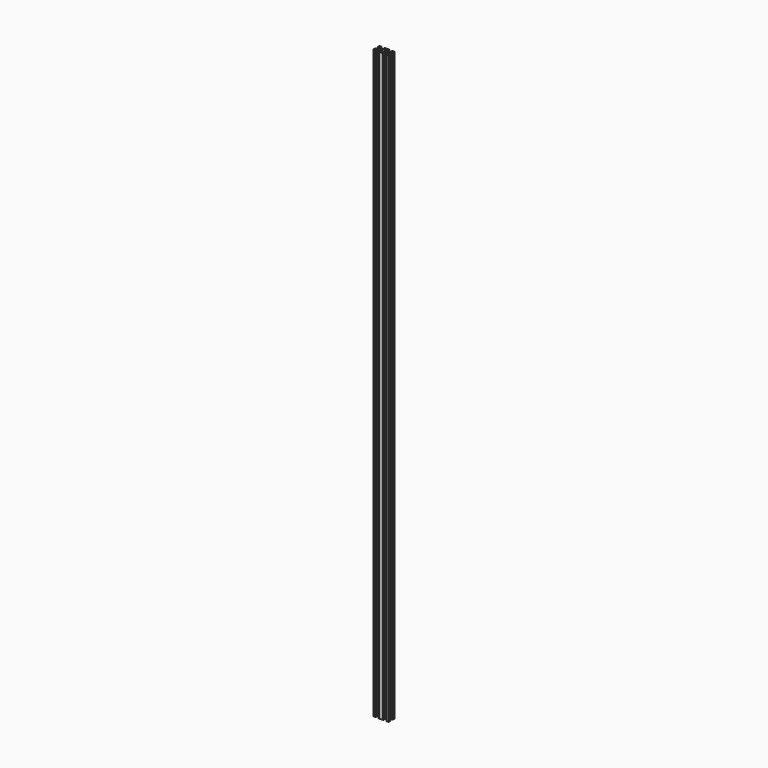
from build123d import *

# Parameters (mm, degrees)
F0_R     = 2.1
F1_DEPTH = 1500


with BuildPart() as f1:
    # F0 (on Top) → F1 (new body)
    with BuildSketch(Plane.XY):
        with BuildLine():
            Line((-3.4, 0), (-3.5, -0.1))
            Line((-3.5, -0.1), (-3.5, -2.43934))
            Line((-3.5, -2.43934), (-6.56066, -5.5))
            Line((-6.56066, -5.5), (-8.2, -5.5))
            Line((-8.2, -5.5), (-8.2, -2.89))
            Line((-8.2, -2.89), (-8.31, -2.89))
            Line((-8.31, -2.89), (-9.768614, -4.348614))
            ThreePointArc((-9.768614, -4.348614), (-9.939865, -4.604909), (-10, -4.907229))
            Line((-10, -4.907229), (-10, -8.5))
            ThreePointArc((-10, -8.5), (-9.56066, -9.56066), (-8.5, -10))
            Line((-8.5, -10), (-4.907229, -10))
            ThreePointArc((-4.907229, -10), (-4.604909, -9.939865), (-4.348614, -9.768614))
            Line((-4.348614, -9.768614), (-2.89, -8.31))
            Line((-2.89, -8.31), (-2.89, -8.2))
            Line((-2.89, -8.2), (-5.5, -8.2))
            Line((-5.5, -8.2), (-5.5, -6.56066))
            Line((-5.5, -6.56066), (-2.43934, -3.5))
            Line((-2.43934, -3.5), (-0.1, -3.5))
            Line((-0.1, -3.5), (0, -3.4))
            Line((0, -3.4), (0.1, -3.5))
            Line((0.1, -3.5), (2.43934, -3.5))
            Line((2.43934, -3.5), (5.5, -6.56066))
            Line((5.5, -6.56066), (5.5, -8.2))
            Line((5.5, -8.2), (2.89, -8.2))
            Line((2.89, -8.2), (2.89, -8.31))
            Line((2.89, -8.31), (4.348614, -9.768614))
            ThreePointArc((4.348614, -9.768614), (4.604909, -9.939865), (4.907229, -10))
            Line((4.907229, -10), (10, -10))
            Line((10, -10), (15.092771, -10))
            ThreePointArc((15.092771, -10), (15.395091, -9.939865), (15.651386, -9.768614))
            Line((15.651386, -9.768614), (17.11, -8.31))
            Line((17.11, -8.31), (17.11, -8.2))
            Line((17.11, -8.2), (14.5, -8.2))
            Line((14.5, -8.2), (14.5, -6.56066))
            Line((14.5, -6.56066), (17.56066, -3.5))
            Line((17.56066, -3.5), (19.9, -3.5))
            Line((19.9, -3.5), (20, -3.4))
            Line((20, -3.4), (20.1, -3.5))
            Line((20.1, -3.5), (22.43934, -3.5))
            Line((22.43934, -3.5), (25.5, -6.56066))
            Line((25.5, -6.56066), (25.5, -8.2))
            Line((25.5, -8.2), (22.89, -8.2))
            Line((22.89, -8.2), (22.89, -8.31))
            Line((22.89, -8.31), (24.348614, -9.768614))
            ThreePointArc((24.348614, -9.768614), (24.604909, -9.939865), (24.907229, -10))
            Line((24.907229, -10), (28.5, -10))
            ThreePointArc((28.5, -10), (29.56066, -9.56066), (30, -8.5))
            Line((30, -8.5), (30, -4.907229))
            ThreePointArc((30, -4.907229), (29.939865, -4.604909), (29.768614, -4.348614))
            Line((29.768614, -4.348614), (28.31, -2.89))
            Line((28.31, -2.89), (28.2, -2.89))
            Line((28.2, -2.89), (28.2, -5.5))
            Line((28.2, -5.5), (26.56066, -5.5))
            Line((26.56066, -5.5), (23.5, -2.43934))
            Line((23.5, -2.43934), (23.5, -0.1))
            Line((23.5, -0.1), (23.4, 0))
            Line((23.4, 0), (23.5, 0.1))
            Line((23.5, 0.1), (23.5, 2.43934))
            Line((23.5, 2.43934), (26.56066, 5.5))
            Line((26.56066, 5.5), (28.2, 5.5))
            Line((28.2, 5.5), (28.2, 2.89))
            Line((28.2, 2.89), (28.31, 2.89))
            Line((28.31, 2.89), (29.768614, 4.348614))
            ThreePointArc((29.768614, 4.348614), (29.939865, 4.604909), (30, 4.907229))
            Line((30, 4.907229), (30, 8.5))
            ThreePointArc((30, 8.5), (29.56066, 9.56066), (28.5, 10))
            Line((28.5, 10), (24.907229, 10))
            ThreePointArc((24.907229, 10), (24.604909, 9.939865), (24.348614, 9.768614))
            Line((24.348614, 9.768614), (22.89, 8.31))
            Line((22.89, 8.31), (22.89, 8.2))
            Line((22.89, 8.2), (25.5, 8.2))
            Line((25.5, 8.2), (25.5, 6.56066))
            Line((25.5, 6.56066), (22.43934, 3.5))
            Line((22.43934, 3.5), (20.1, 3.5))
            Line((20.1, 3.5), (20, 3.4))
            Line((20, 3.4), (19.9, 3.5))
            Line((19.9, 3.5), (17.56066, 3.5))
            Line((17.56066, 3.5), (14.5, 6.56066))
            Line((14.5, 6.56066), (14.5, 8.2))
            Line((14.5, 8.2), (17.11, 8.2))
            Line((17.11, 8.2), (17.11, 8.31))
            Line((17.11, 8.31), (15.651386, 9.768614))
            ThreePointArc((15.651386, 9.768614), (15.395091, 9.939865), (15.092771, 10))
            Line((15.092771, 10), (10, 10))
            Line((10, 10), (4.907229, 10))
            ThreePointArc((4.907229, 10), (4.604909, 9.939865), (4.348614, 9.768614))
            Line((4.348614, 9.768614), (2.89, 8.31))
            Line((2.89, 8.31), (2.89, 8.2))
            Line((2.89, 8.2), (5.5, 8.2))
            Line((5.5, 8.2), (5.5, 6.56066))
            Line((5.5, 6.56066), (2.43934, 3.5))
            Line((2.43934, 3.5), (0.1, 3.5))
            Line((0.1, 3.5), (0, 3.4))
            Line((0, 3.4), (-0.1, 3.5))
            Line((-0.1, 3.5), (-2.43934, 3.5))
            Line((-2.43934, 3.5), (-5.5, 6.56066))
            Line((-5.5, 6.56066), (-5.5, 8.2))
            Line((-5.5, 8.2), (-2.89, 8.2))
            Line((-2.89, 8.2), (-2.89, 8.31))
            Line((-2.89, 8.31), (-4.348614, 9.768614))
            ThreePointArc((-4.348614, 9.768614), (-4.604909, 9.939865), (-4.907229, 10))
            Line((-4.907229, 10), (-8.5, 10))
            ThreePointArc((-8.5, 10), (-9.56066, 9.56066), (-10, 8.5))
            Line((-10, 8.5), (-10, 4.907229))
            ThreePointArc((-10, 4.907229), (-9.939865, 4.604909), (-9.768614, 4.348614))
            Line((-9.768614, 4.348614), (-8.31, 2.89))
            Line((-8.31, 2.89), (-8.2, 2.89))
            Line((-8.2, 2.89), (-8.2, 5.5))
            Line((-8.2, 5.5), (-6.56066, 5.5))
            Line((-6.56066, 5.5), (-3.5, 2.43934))
            Line((-3.5, 2.43934), (-3.5, 0.1))
            Line((-3.5, 0.1), (-3.4, 0))
        make_face()
        Polygon((-7.66, -6.57), (-7.115, -7.115), (-6.57, -7.66), (-6.57, -8.2), (-8.2, -8.2), (-8.2, -6.57), align=None, mode=Mode.SUBTRACT)
        Polygon((27.115, -7.115), (27.66, -6.57), (28.2, -6.57), (28.2, -8.2), (26.57, -8.2), (26.57, -7.66), align=None, mode=Mode.SUBTRACT)
        Circle(F0_R, mode=Mode.SUBTRACT)
        Polygon((-6.57, 8.2), (-6.57, 7.66), (-7.115, 7.115), (-7.66, 6.57), (-8.2, 6.57), (-8.2, 8.2), align=None, mode=Mode.SUBTRACT)
        Polygon((3.5, -2.43934), (3.5, -0.1), (3.4, 0), (3.5, 0.1), (3.5, 2.43934), (6.9, 5.83934), (6.9, 8.2), (10, 8.2), (13.1, 8.2), (13.1, 5.83934), (16.5, 2.43934), (16.5, 0.1), (16.6, 0), (16.5, -0.1), (16.5, -2.43934), (13.1, -5.83934), (13.1, -8.2), (10, -8.2), (6.9, -8.2), (6.9, -5.83934), align=None, mode=Mode.SUBTRACT)
        with Locations((20, 0)):
            Circle(F0_R, mode=Mode.SUBTRACT)
        Polygon((27.66, 6.57), (27.115, 7.115), (26.57, 7.66), (26.57, 8.2), (28.2, 8.2), (28.2, 6.57), align=None, mode=Mode.SUBTRACT)
    extrude(amount=F1_DEPTH)


solid = f1.part
